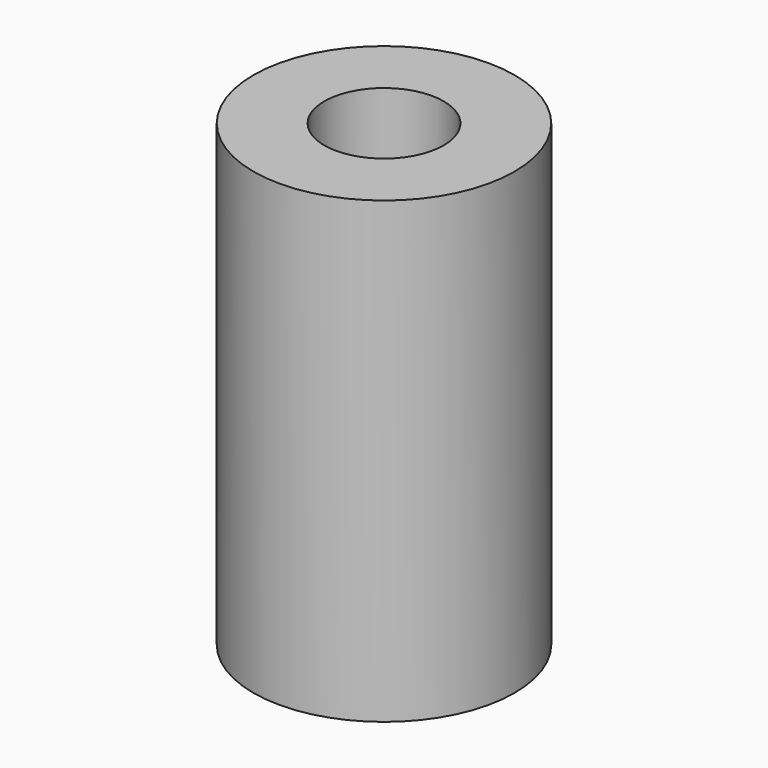
from build123d import *

# Parameters (mm, degrees)
SKETCH_R   = 3.5
SKETCH_R_2 = 1.6
PAD_DEPTH  = 12.3


with BuildPart() as part:
    # Sketch → Pad (new body)
    with BuildSketch(Plane.XY):
        Circle(SKETCH_R)
        Circle(SKETCH_R_2, mode=Mode.SUBTRACT)
    extrude(amount=PAD_DEPTH)


solid = part.part
